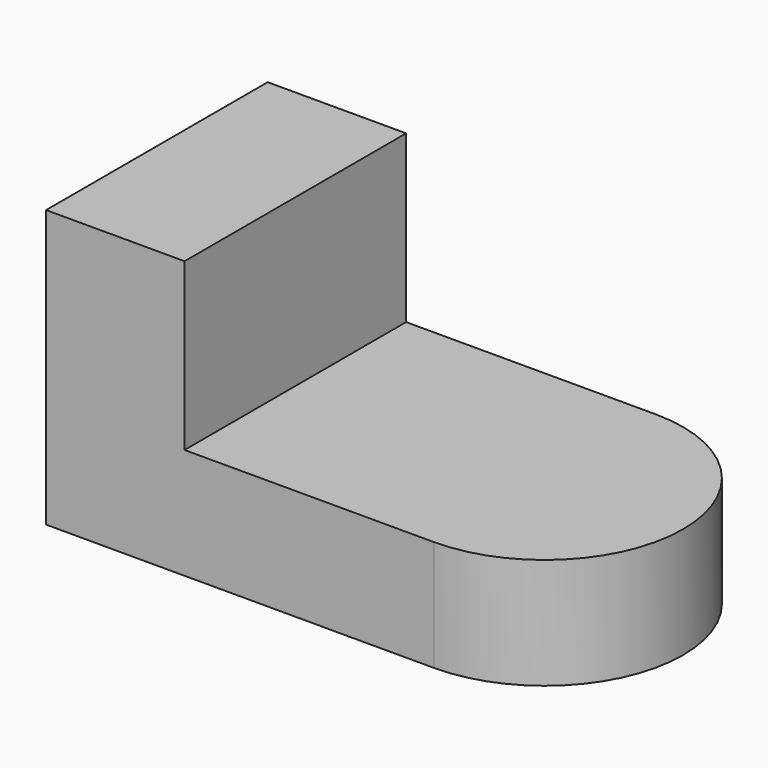
from build123d import *

# Parameters (mm, degrees)
F1_DEPTH = 20
F2_W     = 25
F2_H     = 50
F3_DEPTH = 30


with BuildPart() as f1:
    # F0 (on Top) → F1 (new body)
    with BuildSketch(Plane.XY):
        with BuildLine():
            Line((0, 50), (0, 0))
            Line((0, 0), (70, 0))
            ThreePointArc((70, 0), (95, 25), (70, 50))
            Line((70, 50), (0, 50))
        make_face()
    extrude(amount=F1_DEPTH)

    # F2 (on face) → F3 (join)
    with BuildSketch(Plane.XY.offset(20)):
        with Locations((12.5, 25)):
            Rectangle(F2_W, F2_H)
    extrude(amount=F3_DEPTH)


solid = f1.part
